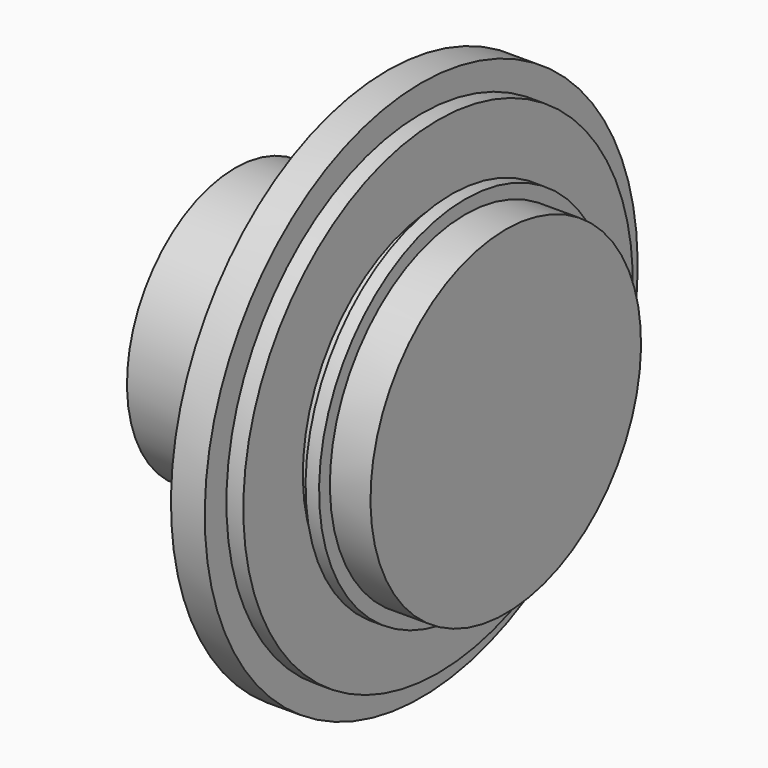
from build123d import *


with BuildPart() as f1:
    # F0 (on Front) → F1 (revolve)
    with BuildSketch(Plane.XZ):
        Polygon((-20, 0), (0, 0), (0, 12.5), (-3, 12.5), (-3, 13.5), (-4, 13.5), (-4, 12.5), (-5, 12.5), (-5, 18), (-6.25, 18), (-6.25, 20), (-8.75, 20), (-8.75, 18), (-10, 18), (-10, 10), (-20, 10), align=None)
    revolve(axis=Axis((-10, 0, 0), (-1, 0, 0)))


solid = f1.part
